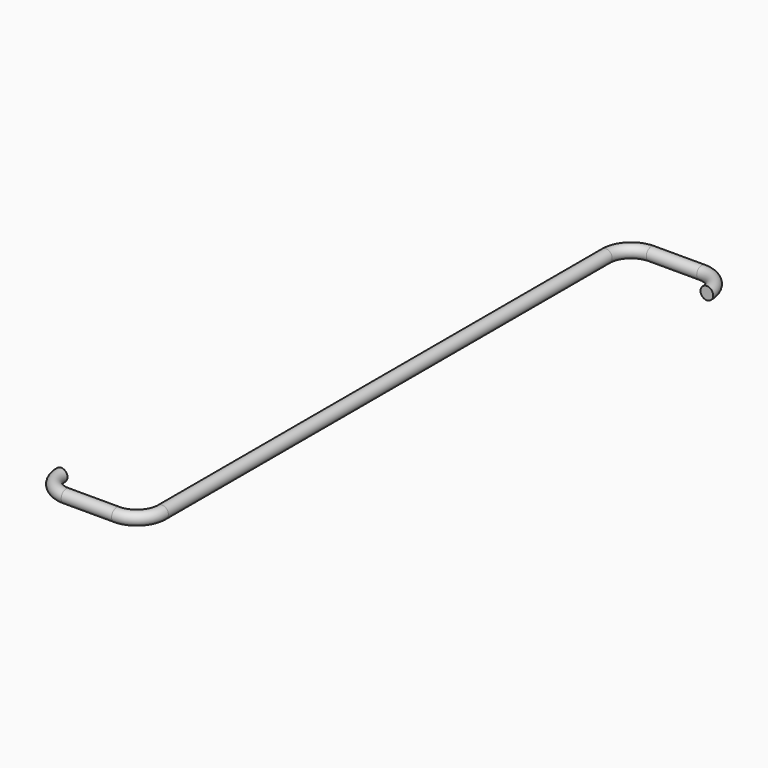
from build123d import *

# Parameters (mm, degrees)
F2_R = 0.79375


with BuildPart() as f3:
    # F3: sweep along a path in F0
    with BuildLine(Plane.XY) as f3_path:
        Line((-6.35, 0), (0, 0))
        ThreePointArc((0, 0), (2.245064, 0.929936), (3.175, 3.175))
        Line((3.175, 3.175), (3.175, 73.025))
        ThreePointArc((3.175, 73.025), (4.104936, 75.270064), (6.35, 76.2))
        Line((6.35, 76.2), (12.7, 76.2))
        ThreePointArc((12.7, 76.2), (14.945064, 75.270064), (15.875, 73.025))
    # F2 (on plane+point) → F3 (sweep)
    with BuildSketch(Plane.YZ.offset(-6.35)):
        Circle(F2_R)
    sweep(path=f3_path.line)

    # F4: sweep along a path in F0
    with BuildLine(Plane.XY) as f4_path:
        ThreePointArc((-9.525, 3.175), (-8.595064, 0.929936), (-6.35, 0))
    # F2 (on plane+point) → F4 (sweep)
    with BuildSketch(Plane.YZ.offset(-6.35)):
        Circle(F2_R)
    sweep(path=f4_path.line)


solid = f3.part
